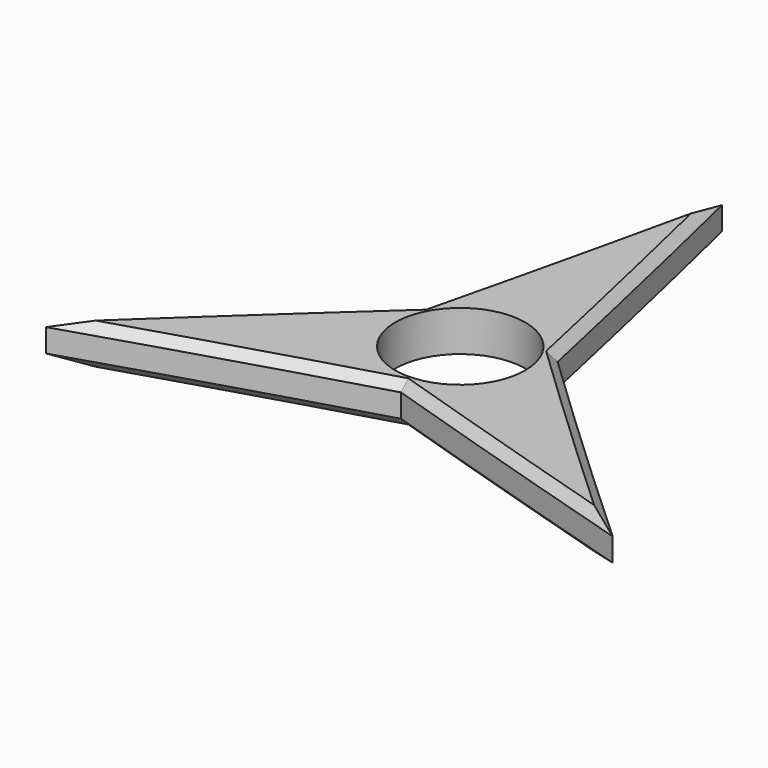
from build123d import *

# Parameters (mm, degrees)
F0_R     = 11.2
F1_DEPTH = 7
F2_SIZE  = 1.5


with BuildPart() as f1:
    # F0 (on Top) → F1 (new body)
    with BuildSketch(Plane.XY):
        with BuildLine():
            ThreePointArc((0, 13.2), (6.44724, 11.518381), (11.251782, 6.901985))
            ThreePointArc((11.251782, 6.901985), (5.743414, 31.649199), (0, 56.342922))
            Line((0, 56.342922), (0, 13.2))
        make_face()
        with BuildLine():
            ThreePointArc((-11.603185, 6.293337), (-6.751591, 11.342664), (0, 13.2))
            Line((0, 13.2), (0, 56.342922))
            ThreePointArc((0, 56.342922), (-5.653683, 31.283839), (-11.603185, 6.293337))
        make_face()
        with BuildLine():
            ThreePointArc((11.251782, -6.901985), (12.703612, -3.585838), (13.2, 0))
            ThreePointArc((13.2, 0), (12.703612, 3.585838), (11.251782, 6.901985))
            ThreePointArc((11.251782, 6.901985), (6.44724, 11.518381), (0, 13.2))
            ThreePointArc((0, 13.2), (-6.751591, 11.342664), (-11.603185, 6.293337))
            ThreePointArc((-11.603185, 6.293337), (-13.188888, -0.541511), (-11.048215, -7.223361))
            ThreePointArc((-11.048215, -7.223361), (-6.125482, -11.692667), (0.351403, -13.195322))
            ThreePointArc((0.351403, -13.195322), (6.6, -11.431535), (11.251782, -6.901985))
        make_face()
        Circle(F0_R, mode=Mode.SUBTRACT)
        with BuildLine():
            ThreePointArc((11.251782, 6.901985), (12.703612, 3.585838), (13.2, 0))
            ThreePointArc((13.2, 0), (12.703612, -3.585838), (11.251782, -6.901985))
            Line((11.251782, -6.901985), (36.527545, -21.22177))
            Line((36.527545, -21.22177), (48.794402, -28.171461))
            ThreePointArc((48.794402, -28.171461), (29.919441, -10.745686), (11.251782, 6.901985))
        make_face()
        with BuildLine():
            Line((36.527545, -21.22177), (11.251782, -6.901985))
            ThreePointArc((11.251782, -6.901985), (6.6, -11.431535), (0.351403, -13.195322))
            ThreePointArc((0.351403, -13.195322), (24.537304, -20.798542), (48.794402, -28.171461))
            Line((48.794402, -28.171461), (36.527545, -21.22177))
        make_face()
        with BuildLine():
            ThreePointArc((-48.794402, -28.171461), (-24.265758, -20.538153), (0.351403, -13.195322))
            ThreePointArc((0.351403, -13.195322), (-6.125482, -11.692667), (-11.048215, -7.223361))
            Line((-11.048215, -7.223361), (-48.794402, -28.171461))
        make_face()
        with BuildLine():
            ThreePointArc((-11.048215, -7.223361), (-13.188888, -0.541511), (-11.603185, 6.293337))
            ThreePointArc((-11.603185, 6.293337), (-30.280717, -10.850657), (-48.794402, -28.171461))
            Line((-48.794402, -28.171461), (-11.048215, -7.223361))
        make_face()
    extrude(amount=F1_DEPTH)

    # F2
    f2_edges = [f1.edges().sort_by_distance(p)[0] for p in [
        (-24.265758, -20.538153, 7),
        (-30.280717, -10.850657, 7),
        (-5.653683, 31.283839, 7),
        (5.743414, 31.649199, 7),
        (29.919441, -10.745686, 7),
        (24.537304, -20.798542, 7),
        (24.537304, -20.798542, 0),
        (29.919441, -10.745686, 0),
        (-5.653683, 31.283839, 0),
        (5.743414, 31.649199, 0),
        (-30.280717, -10.850657, 0),
        (-24.265758, -20.538153, 0),
    ]]
    chamfer(f2_edges, length=F2_SIZE)


solid = f1.part
